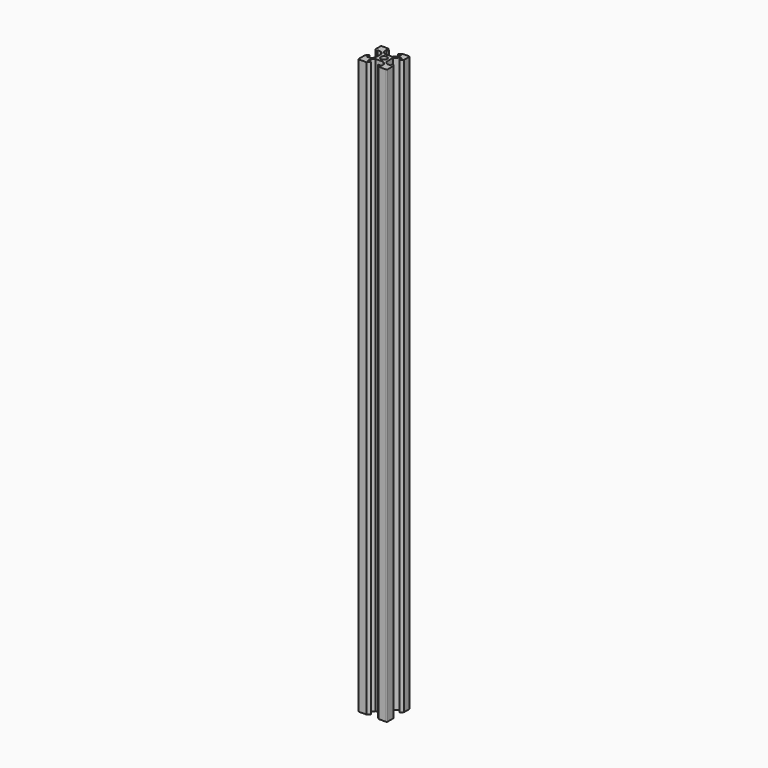
from build123d import *

# Parameters (mm, degrees)
PAD_DEPTH = 400


with BuildPart() as part:
    # Sketch → Pad (new body)
    with BuildSketch(Plane.XY):
        with BuildLine():
            Line((3.9, 0), (3.9, 2.83934))
            Line((3.9, 2.83934), (6.56066, 5.5))
            Line((6.56066, 5.5), (8.2, 5.5))
            Line((8.2, 5.5), (8.2, 3.1))
            Line((8.2, 3.1), (10, 4.9))
            Line((10, 4.9), (10, 9.5))
            ThreePointArc((10, 9.5), (9.853553, 9.853553), (9.5, 10))
            Line((4.9, 10), (9.5, 10))
            Line((3.1, 8.2), (4.9, 10))
            Line((5.5, 8.2), (3.1, 8.2))
            Line((5.5, 6.56066), (5.5, 8.2))
            Line((2.83934, 3.9), (5.5, 6.56066))
            Line((2.83934, 3.9), (0, 3.9))
            Line((-2.83934, 3.9), (0, 3.9))
            Line((-2.83934, 3.9), (-4.73934, 5.8))
            Line((-4.73934, 5.8), (-4.73934, 8.2))
            Line((-4.73934, 8.2), (-3.1, 8.2))
            Line((-3.1, 8.2), (-4.9, 10))
            Line((-4.9, 10), (-9.5, 10))
            ThreePointArc((-9.5, 10), (-9.853553, 9.853553), (-10, 9.5))
            Line((-10, 4.9), (-10, 9.5))
            Line((-8.2, 3.1), (-10, 4.9))
            Line((-8.2, 4.73934), (-8.2, 3.1))
            Line((-5.8, 4.73934), (-8.2, 4.73934))
            Line((-3.9, 2.83934), (-5.8, 4.73934))
            Line((-3.9, 0), (-3.9, 2.83934))
            Line((-3.9, 0), (-3.9, -2.83934))
            Line((-3.9, -2.83934), (-5.8, -4.73934))
            Line((-5.8, -4.73934), (-8.2, -4.73934))
            Line((-8.2, -4.73934), (-8.2, -2.33934))
            Line((-8.2, -2.33934), (-10, -4.13934))
            Line((-10, -4.13934), (-10, -9.5))
            ThreePointArc((-10, -9.5), (-9.853553, -9.853553), (-9.5, -10))
            Line((-4.13934, -10), (-9.5, -10))
            Line((-2.33934, -8.2), (-4.13934, -10))
            Line((-4.73934, -8.2), (-2.33934, -8.2))
            Line((-4.73934, -5.8), (-4.73934, -8.2))
            Line((-2.83934, -3.9), (-4.73934, -5.8))
            Line((-2.83934, -3.9), (0, -3.9))
            Line((2.83934, -3.9), (0, -3.9))
            Line((2.83934, -3.9), (4.73934, -5.8))
            Line((4.73934, -5.8), (4.73934, -8.2))
            Line((4.73934, -8.2), (2.33934, -8.2))
            Line((2.33934, -8.2), (4.13934, -10))
            Line((4.13934, -10), (9.5, -10))
            ThreePointArc((9.5, -10), (9.853553, -9.853553), (10, -9.5))
            Line((10, -4.13934), (10, -9.5))
            Line((8.2, -2.33934), (10, -4.13934))
            Line((8.2, -4.73934), (8.2, -2.33934))
            Line((5.8, -4.73934), (8.2, -4.73934))
            Line((3.9, -2.83934), (5.8, -4.73934))
            Line((3.9, 0), (3.9, -2.83934))
        make_face()
        with BuildLine():
            ThreePointArc((2.1, 0), (1.484924, 1.484924), (0, 2.1))
            ThreePointArc((0, 2.1), (-1.484924, 1.484924), (-2.1, 0))
            ThreePointArc((-2.1, 0), (-1.484924, -1.484924), (0, -2.1))
            ThreePointArc((0, -2.1), (1.484924, -1.484924), (2.1, 0))
        make_face(mode=Mode.SUBTRACT)
    extrude(amount=PAD_DEPTH)


solid = part.part
